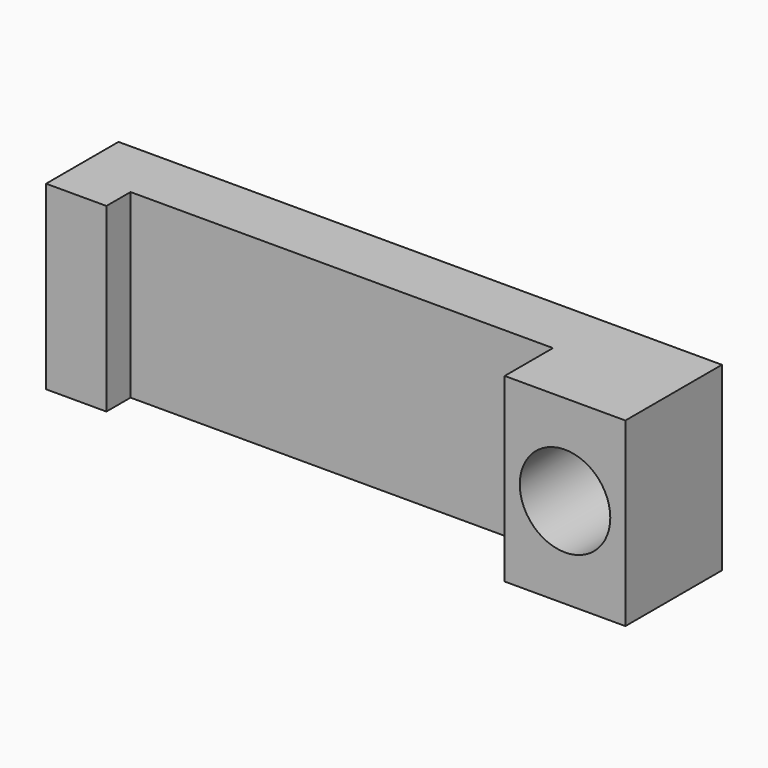
from build123d import *

# Parameters (mm, degrees)
F0_W     = 100
F0_H     = 30
F1_DEPTH = 10
F2_W     = 10
F2_H     = 30
F3_DEPTH = 5
F4_W     = 20
F4_H     = 30
F5_DEPTH = 10
F6_R     = 7.5
F7_DEPTH = 20.001


with BuildPart() as f1:
    # F0 (on Front) → F1 (new body)
    with BuildSketch(Plane.XZ):
        with Locations((0, -0.888889)):
            Rectangle(F0_W, F0_H)
    extrude(amount=F1_DEPTH)

    # F2 (on face) → F3 (join)
    with BuildSketch(Plane.XZ.offset(10)):
        with Locations((-45, -0.888889)):
            Rectangle(F2_W, F2_H)
    extrude(amount=F3_DEPTH)

    # F4 (on face) → F5 (join)
    with BuildSketch(Plane.XZ.offset(10)):
        with Locations((40, -0.888889)):
            Rectangle(F4_W, F4_H)
    extrude(amount=F5_DEPTH)

    # F6 (on face) → F7 (cut, through all)
    with BuildSketch(Plane.XZ.offset(20)):
        with Locations((40, -0.888889)):
            Circle(F6_R)
    extrude(amount=-F7_DEPTH, mode=Mode.SUBTRACT)


solid = f1.part
